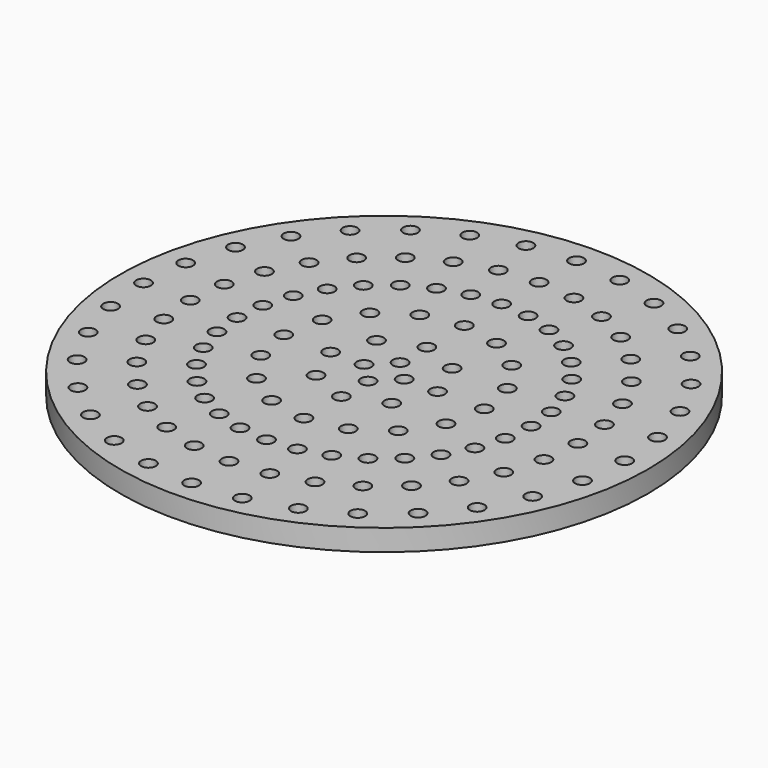
from build123d import *

# Parameters (mm, degrees)
F0_R     = 19.75
F0_R_2   = 0.55
F1_DEPTH = 1.6


with BuildPart() as f1:
    # F0 (on Top) → F1 (new body)
    with BuildSketch(Plane.XY):
        Circle(F0_R)
        with Locations((-10.000264, -14.966453)):
            Circle(F0_R_2, mode=Mode.SUBTRACT)
        with Locations((-14.966453, -10.000264)):
            Circle(F0_R_2, mode=Mode.SUBTRACT)
        with Locations((-12.727922, -12.727922)):
            Circle(F0_R_2, mode=Mode.SUBTRACT)
        with Locations((-10.253048, -10.253048)):
            Circle(F0_R_2, mode=Mode.SUBTRACT)
        with Locations((-6.888302, -16.629832)):
            Circle(F0_R_2, mode=Mode.SUBTRACT)
        with Locations((-3.511626, -17.654135)):
            Circle(F0_R_2, mode=Mode.SUBTRACT)
        with Locations((-5.54891, -13.396253)):
            Circle(F0_R_2, mode=Mode.SUBTRACT)
        with Locations((-8.055768, -12.056309)):
            Circle(F0_R_2, mode=Mode.SUBTRACT)
        with Locations((-2.82881, -14.221387)):
            Circle(F0_R_2, mode=Mode.SUBTRACT)
        with Locations((-4.209518, -10.162675)):
            Circle(F0_R_2, mode=Mode.SUBTRACT)
        with Locations((-2.145994, -10.788638)):
            Circle(F0_R_2, mode=Mode.SUBTRACT)
        with Locations((-16.629832, -6.888302)):
            Circle(F0_R_2, mode=Mode.SUBTRACT)
        with Locations((-12.056309, -8.055768)):
            Circle(F0_R_2, mode=Mode.SUBTRACT)
        with Locations((-13.396253, -5.54891)):
            Circle(F0_R_2, mode=Mode.SUBTRACT)
        with Locations((-17.654135, -3.511626)):
            Circle(F0_R_2, mode=Mode.SUBTRACT)
        with Locations((-14.221387, -2.82881)):
            Circle(F0_R_2, mode=Mode.SUBTRACT)
        with Locations((-10.162675, -4.209518)):
            Circle(F0_R_2, mode=Mode.SUBTRACT)
        with Locations((-10.788638, -2.145994)):
            Circle(F0_R_2, mode=Mode.SUBTRACT)
        with Locations((-7.778175, -7.778175)):
            Circle(F0_R_2, mode=Mode.SUBTRACT)
        with Locations((-6.111273, -9.146166)):
            Circle(F0_R_2, mode=Mode.SUBTRACT)
        with Locations((-9.146166, -6.111273)):
            Circle(F0_R_2, mode=Mode.SUBTRACT)
        with Locations((-5.303301, -5.303301)):
            Circle(F0_R_2, mode=Mode.SUBTRACT)
        with Locations((-2.870126, -6.929096)):
            Circle(F0_R_2, mode=Mode.SUBTRACT)
        with Locations((-6.929096, -2.870126)):
            Circle(F0_R_2, mode=Mode.SUBTRACT)
        with Locations((-2.828427, -2.828427)):
            Circle(F0_R_2, mode=Mode.SUBTRACT)
        with Locations((0, -18)):
            Circle(F0_R_2, mode=Mode.SUBTRACT)
        with Locations((3.511626, -17.654135)):
            Circle(F0_R_2, mode=Mode.SUBTRACT)
        with Locations((6.888302, -16.629832)):
            Circle(F0_R_2, mode=Mode.SUBTRACT)
        with Locations((0, -14.5)):
            Circle(F0_R_2, mode=Mode.SUBTRACT)
        with Locations((2.82881, -14.221387)):
            Circle(F0_R_2, mode=Mode.SUBTRACT)
        with Locations((0, -11)):
            Circle(F0_R_2, mode=Mode.SUBTRACT)
        with Locations((2.145994, -10.788638)):
            Circle(F0_R_2, mode=Mode.SUBTRACT)
        with Locations((4.209518, -10.162675)):
            Circle(F0_R_2, mode=Mode.SUBTRACT)
        with Locations((5.54891, -13.396253)):
            Circle(F0_R_2, mode=Mode.SUBTRACT)
        with Locations((8.055768, -12.056309)):
            Circle(F0_R_2, mode=Mode.SUBTRACT)
        with Locations((10.000264, -14.966453)):
            Circle(F0_R_2, mode=Mode.SUBTRACT)
        with Locations((12.727922, -12.727922)):
            Circle(F0_R_2, mode=Mode.SUBTRACT)
        with Locations((10.253048, -10.253048)):
            Circle(F0_R_2, mode=Mode.SUBTRACT)
        with Locations((14.966453, -10.000264)):
            Circle(F0_R_2, mode=Mode.SUBTRACT)
        with Locations((0, -7.5)):
            Circle(F0_R_2, mode=Mode.SUBTRACT)
        with Locations((2.870126, -6.929096)):
            Circle(F0_R_2, mode=Mode.SUBTRACT)
        with Locations((6.111273, -9.146166)):
            Circle(F0_R_2, mode=Mode.SUBTRACT)
        with Locations((7.778175, -7.778175)):
            Circle(F0_R_2, mode=Mode.SUBTRACT)
        with Locations((5.303301, -5.303301)):
            Circle(F0_R_2, mode=Mode.SUBTRACT)
        with Locations((9.146166, -6.111273)):
            Circle(F0_R_2, mode=Mode.SUBTRACT)
        with Locations((0, -4)):
            Circle(F0_R_2, mode=Mode.SUBTRACT)
        with Locations((2.828427, -2.828427)):
            Circle(F0_R_2, mode=Mode.SUBTRACT)
        with Locations((0, -1.5)):
            Circle(F0_R_2, mode=Mode.SUBTRACT)
        with Locations((6.929096, -2.870126)):
            Circle(F0_R_2, mode=Mode.SUBTRACT)
        with Locations((12.056309, -8.055768)):
            Circle(F0_R_2, mode=Mode.SUBTRACT)
        with Locations((13.396253, -5.54891)):
            Circle(F0_R_2, mode=Mode.SUBTRACT)
        with Locations((16.629832, -6.888302)):
            Circle(F0_R_2, mode=Mode.SUBTRACT)
        with Locations((10.162675, -4.209518)):
            Circle(F0_R_2, mode=Mode.SUBTRACT)
        with Locations((14.221387, -2.82881)):
            Circle(F0_R_2, mode=Mode.SUBTRACT)
        with Locations((10.788638, -2.145994)):
            Circle(F0_R_2, mode=Mode.SUBTRACT)
        with Locations((17.654135, -3.511626)):
            Circle(F0_R_2, mode=Mode.SUBTRACT)
        with Locations((-18, 0)):
            Circle(F0_R_2, mode=Mode.SUBTRACT)
        with Locations((-17.654135, 3.511626)):
            Circle(F0_R_2, mode=Mode.SUBTRACT)
        with Locations((-14.5, 0)):
            Circle(F0_R_2, mode=Mode.SUBTRACT)
        with Locations((-11, 0)):
            Circle(F0_R_2, mode=Mode.SUBTRACT)
        with Locations((-10.788638, 2.145994)):
            Circle(F0_R_2, mode=Mode.SUBTRACT)
        with Locations((-14.221387, 2.82881)):
            Circle(F0_R_2, mode=Mode.SUBTRACT)
        with Locations((-10.162675, 4.209518)):
            Circle(F0_R_2, mode=Mode.SUBTRACT)
        with Locations((-16.629832, 6.888302)):
            Circle(F0_R_2, mode=Mode.SUBTRACT)
        with Locations((-13.396253, 5.54891)):
            Circle(F0_R_2, mode=Mode.SUBTRACT)
        with Locations((-12.056309, 8.055768)):
            Circle(F0_R_2, mode=Mode.SUBTRACT)
        with Locations((-7.5, 0)):
            Circle(F0_R_2, mode=Mode.SUBTRACT)
        with Locations((-6.929096, 2.870126)):
            Circle(F0_R_2, mode=Mode.SUBTRACT)
        with Locations((-4, 0)):
            Circle(F0_R_2, mode=Mode.SUBTRACT)
        with Locations((-1.5, 0)):
            Circle(F0_R_2, mode=Mode.SUBTRACT)
        with Locations((-2.828427, 2.828427)):
            Circle(F0_R_2, mode=Mode.SUBTRACT)
        with Locations((-9.146166, 6.111273)):
            Circle(F0_R_2, mode=Mode.SUBTRACT)
        with Locations((-5.303301, 5.303301)):
            Circle(F0_R_2, mode=Mode.SUBTRACT)
        with Locations((-7.778175, 7.778175)):
            Circle(F0_R_2, mode=Mode.SUBTRACT)
        with Locations((-6.111273, 9.146166)):
            Circle(F0_R_2, mode=Mode.SUBTRACT)
        with Locations((-2.870126, 6.929096)):
            Circle(F0_R_2, mode=Mode.SUBTRACT)
        with Locations((-14.966453, 10.000264)):
            Circle(F0_R_2, mode=Mode.SUBTRACT)
        with Locations((-10.253048, 10.253048)):
            Circle(F0_R_2, mode=Mode.SUBTRACT)
        with Locations((-12.727922, 12.727922)):
            Circle(F0_R_2, mode=Mode.SUBTRACT)
        with Locations((-10.000264, 14.966453)):
            Circle(F0_R_2, mode=Mode.SUBTRACT)
        with Locations((-8.055768, 12.056309)):
            Circle(F0_R_2, mode=Mode.SUBTRACT)
        with Locations((-5.54891, 13.396253)):
            Circle(F0_R_2, mode=Mode.SUBTRACT)
        with Locations((-4.209518, 10.162675)):
            Circle(F0_R_2, mode=Mode.SUBTRACT)
        with Locations((-2.145994, 10.788638)):
            Circle(F0_R_2, mode=Mode.SUBTRACT)
        with Locations((-2.82881, 14.221387)):
            Circle(F0_R_2, mode=Mode.SUBTRACT)
        with Locations((-6.888302, 16.629832)):
            Circle(F0_R_2, mode=Mode.SUBTRACT)
        with Locations((-3.511626, 17.654135)):
            Circle(F0_R_2, mode=Mode.SUBTRACT)
        with Locations((1.5, 0)):
            Circle(F0_R_2, mode=Mode.SUBTRACT)
        with Locations((0, 1.5)):
            Circle(F0_R_2, mode=Mode.SUBTRACT)
        with Locations((4, 0)):
            Circle(F0_R_2, mode=Mode.SUBTRACT)
        with Locations((0, 4)):
            Circle(F0_R_2, mode=Mode.SUBTRACT)
        with Locations((2.828427, 2.828427)):
            Circle(F0_R_2, mode=Mode.SUBTRACT)
        with Locations((7.5, 0)):
            Circle(F0_R_2, mode=Mode.SUBTRACT)
        with Locations((6.929096, 2.870126)):
            Circle(F0_R_2, mode=Mode.SUBTRACT)
        with Locations((2.870126, 6.929096)):
            Circle(F0_R_2, mode=Mode.SUBTRACT)
        with Locations((0, 7.5)):
            Circle(F0_R_2, mode=Mode.SUBTRACT)
        with Locations((5.303301, 5.303301)):
            Circle(F0_R_2, mode=Mode.SUBTRACT)
        with Locations((9.146166, 6.111273)):
            Circle(F0_R_2, mode=Mode.SUBTRACT)
        with Locations((6.111273, 9.146166)):
            Circle(F0_R_2, mode=Mode.SUBTRACT)
        with Locations((7.778175, 7.778175)):
            Circle(F0_R_2, mode=Mode.SUBTRACT)
        with Locations((11, 0)):
            Circle(F0_R_2, mode=Mode.SUBTRACT)
        with Locations((10.788638, 2.145994)):
            Circle(F0_R_2, mode=Mode.SUBTRACT)
        with Locations((14.5, 0)):
            Circle(F0_R_2, mode=Mode.SUBTRACT)
        with Locations((10.162675, 4.209518)):
            Circle(F0_R_2, mode=Mode.SUBTRACT)
        with Locations((14.221387, 2.82881)):
            Circle(F0_R_2, mode=Mode.SUBTRACT)
        with Locations((18, 0)):
            Circle(F0_R_2, mode=Mode.SUBTRACT)
        with Locations((17.654135, 3.511626)):
            Circle(F0_R_2, mode=Mode.SUBTRACT)
        with Locations((13.396253, 5.54891)):
            Circle(F0_R_2, mode=Mode.SUBTRACT)
        with Locations((12.056309, 8.055768)):
            Circle(F0_R_2, mode=Mode.SUBTRACT)
        with Locations((16.629832, 6.888302)):
            Circle(F0_R_2, mode=Mode.SUBTRACT)
        with Locations((0, 11)):
            Circle(F0_R_2, mode=Mode.SUBTRACT)
        with Locations((2.145994, 10.788638)):
            Circle(F0_R_2, mode=Mode.SUBTRACT)
        with Locations((4.209518, 10.162675)):
            Circle(F0_R_2, mode=Mode.SUBTRACT)
        with Locations((0, 14.5)):
            Circle(F0_R_2, mode=Mode.SUBTRACT)
        with Locations((2.82881, 14.221387)):
            Circle(F0_R_2, mode=Mode.SUBTRACT)
        with Locations((8.055768, 12.056309)):
            Circle(F0_R_2, mode=Mode.SUBTRACT)
        with Locations((5.54891, 13.396253)):
            Circle(F0_R_2, mode=Mode.SUBTRACT)
        with Locations((0, 18)):
            Circle(F0_R_2, mode=Mode.SUBTRACT)
        with Locations((3.511626, 17.654135)):
            Circle(F0_R_2, mode=Mode.SUBTRACT)
        with Locations((6.888302, 16.629832)):
            Circle(F0_R_2, mode=Mode.SUBTRACT)
        with Locations((10.253048, 10.253048)):
            Circle(F0_R_2, mode=Mode.SUBTRACT)
        with Locations((12.727922, 12.727922)):
            Circle(F0_R_2, mode=Mode.SUBTRACT)
        with Locations((14.966453, 10.000264)):
            Circle(F0_R_2, mode=Mode.SUBTRACT)
        with Locations((10.000264, 14.966453)):
            Circle(F0_R_2, mode=Mode.SUBTRACT)
    extrude(amount=F1_DEPTH)


solid = f1.part
